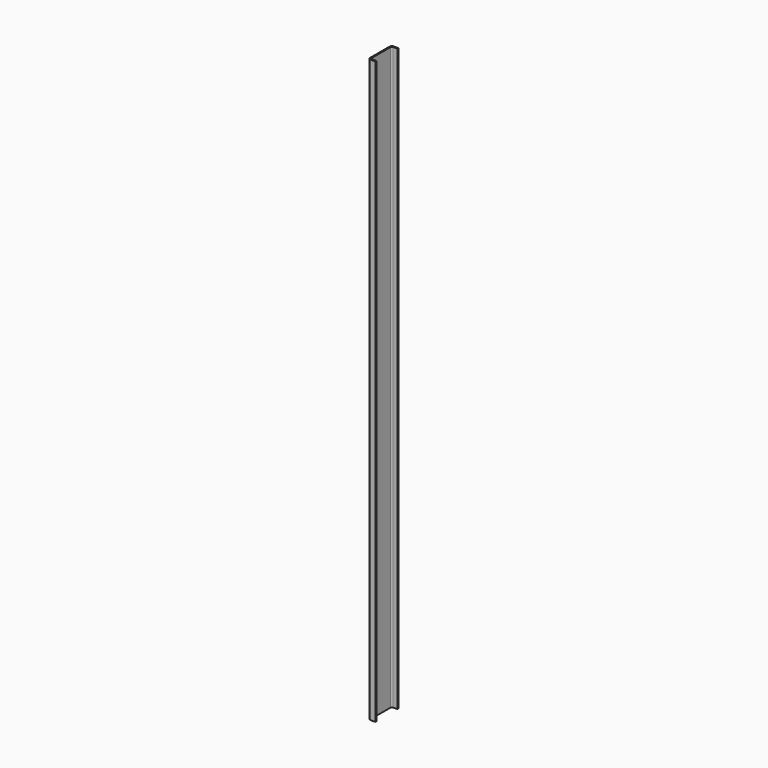
from build123d import *

# Parameters (mm, degrees)
F1_DEPTH = 373.5


with BuildPart() as f1:
    # F0 (on Top) → F1 (new body, symmetric)
    with BuildSketch(Plane.XY):
        with BuildLine():
            Line((9, 17), (9, 18.5))
            Line((9, 18.5), (3, 18.5))
            ThreePointArc((3, 18.5), (0.87868, 17.62132), (0, 15.5))
            Line((0, 15.5), (0, 0))
            Line((0, 0), (0, -15.5))
            ThreePointArc((0, -15.5), (0.87868, -17.62132), (3, -18.5))
            Line((3, -18.5), (9, -18.5))
            Line((9, -18.5), (9, -17))
            Line((9, -17), (3, -17))
            ThreePointArc((3, -17), (1.93934, -16.56066), (1.5, -15.5))
            Line((1.5, -15.5), (1.5, 0))
            Line((1.5, 0), (1.5, 15.5))
            ThreePointArc((1.5, 15.5), (1.93934, 16.56066), (3, 17))
            Line((3, 17), (9, 17))
        make_face()
    extrude(amount=F1_DEPTH, both=True)


solid = f1.part
